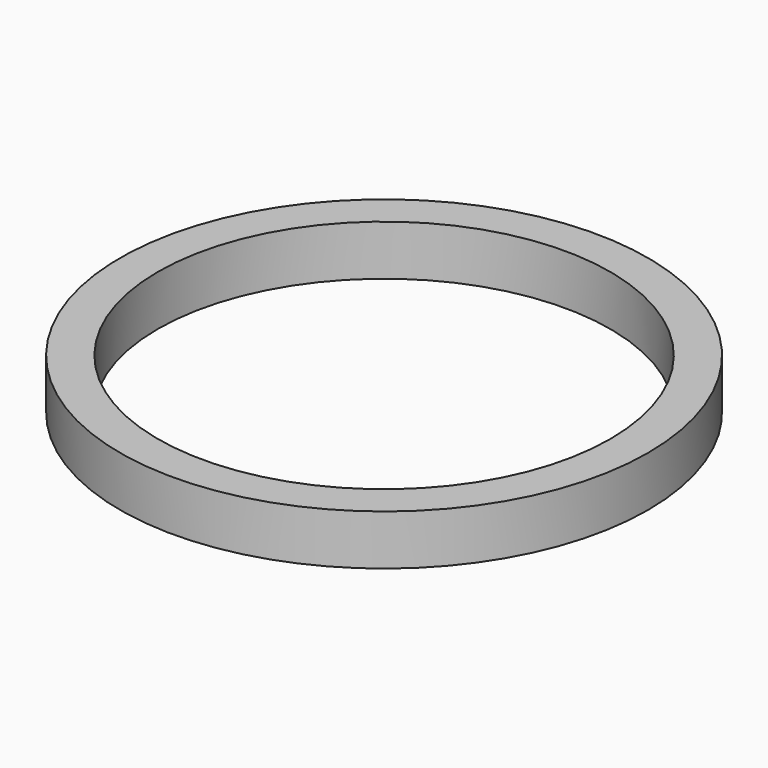
from build123d import *

# Parameters (mm, degrees)
SKETCH_R   = 10.5
SKETCH_R_2 = 9
PAD_DEPTH  = 2


with BuildPart() as part:
    # Sketch → Pad (new body)
    with BuildSketch(Plane.XY):
        Circle(SKETCH_R)
        Circle(SKETCH_R_2, mode=Mode.SUBTRACT)
    extrude(amount=PAD_DEPTH)


solid = part.part
